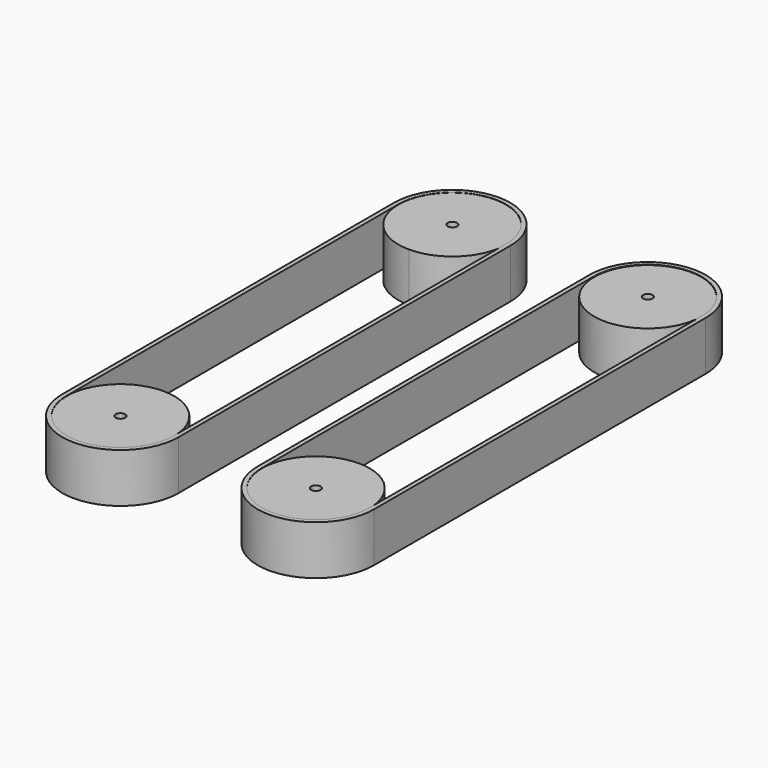
from build123d import *

# Parameters (mm, degrees)
F0_R     = 31.016257
F0_R_2   = 2.75
F1_DEPTH = 28.35
F3_DEPTH = 28.5


with BuildPart() as f1:
    # F0 (on Top) → F1 (new body)
    with BuildSketch(Plane.XY):
        with BuildLine():
            ThreePointArc((-53.666257, 119.999981), (-58.360258, 121.945067), (-56.417789, 117.249982))
            ThreePointArc((-56.417789, 117.249982), (-54.472255, 118.054896), (-53.666257, 119.999981))
        make_face()
        with BuildLine():
            ThreePointArc((-56.43369, 88.716243), (-34.301474, 97.872872), (-25.132513, 119.999981))
            ThreePointArc((-25.132513, 119.999981), (-33.296225, 141.074533), (-53.526603, 151.149981))
            Line((-53.526603, 151.149981), (-59.30591, 151.149981))
            ThreePointArc((-59.30591, 151.149981), (-79.536289, 141.074533), (-87.7, 119.999981))
            ThreePointArc((-87.7, 119.999981), (-78.543366, 97.885199), (-56.43369, 88.716243))
        make_face()
        with BuildLine():
            ThreePointArc((-53.666257, 119.999981), (-54.472255, 118.054896), (-56.417789, 117.249982))
            ThreePointArc((-56.417789, 117.249982), (-58.360258, 121.945067), (-53.666257, 119.999981))
        make_face(mode=Mode.SUBTRACT)
        with Locations((56.683743, 119.999981)):
            Circle(F0_R)
        with Locations((56.683743, 119.999981)):
            Circle(F0_R_2, mode=Mode.SUBTRACT)
        with BuildLine():
            ThreePointArc((87.7, -119.999981), (56.55, -88.849981), (25.4, -119.999981))
            ThreePointArc((25.4, -119.999981), (34.523624, -142.026358), (56.55, -151.149981))
            ThreePointArc((56.55, -151.149981), (78.576376, -142.026358), (87.7, -119.999981))
        make_face()
        with Locations((56.55, -119.999981)):
            Circle(F0_R_2, mode=Mode.SUBTRACT)
        with BuildLine():
            ThreePointArc((-53.8, -119.999981), (-54.604915, -118.05598), (-56.548468, -117.249982))
            ThreePointArc((-56.548468, -117.249982), (-58.495085, -121.943983), (-53.8, -119.999981))
        make_face()
        with BuildLine():
            ThreePointArc((-25.4, -119.999981), (-34.517487, -97.979743), (-56.532641, -88.849986))
            ThreePointArc((-56.532641, -88.849986), (-78.570238, -97.967469), (-87.7, -119.999981))
            ThreePointArc((-87.7, -119.999981), (-78.576376, -142.026358), (-56.55, -151.149981))
            ThreePointArc((-56.55, -151.149981), (-34.523624, -142.026358), (-25.4, -119.999981))
        make_face()
        with BuildLine():
            ThreePointArc((-53.8, -119.999981), (-58.495085, -121.943983), (-56.548468, -117.249982))
            ThreePointArc((-56.548468, -117.249982), (-54.604915, -118.05598), (-53.8, -119.999981))
        make_face(mode=Mode.SUBTRACT)
        with BuildLine():
            Line((-59.30591, 151.149981), (-53.526603, 151.149981))
            ThreePointArc((-53.526603, 151.149981), (-56.416257, 151.283725), (-59.30591, 151.149981))
        make_face()
    extrude(amount=F1_DEPTH)


with BuildPart() as f3:
    # F2 (on Top) → F3 (new body)
    with BuildSketch(Plane.XY):
        with BuildLine():
            Line((-25.4, -120), (-25.4, 120))
            ThreePointArc((-25.4, 120), (-56.55, 151.15), (-87.7, 120))
            Line((-87.7, 120), (-87.7, -120))
            ThreePointArc((-87.7, -120), (-56.55, -151.15), (-25.4, -120))
        make_face()
        with BuildLine():
            Line((-22.9, -120), (-22.9, 120))
            ThreePointArc((-22.9, 120), (-56.55, 153.65), (-90.2, 120))
            Line((-90.2, 120), (-90.2, -120))
            ThreePointArc((-90.2, -120), (-56.55, -153.65), (-22.9, -120))
        make_face()
        with BuildLine():
            ThreePointArc((-87.7, 120), (-56.55, 151.15), (-25.4, 120))
            Line((-25.4, 120), (-25.4, -120))
            ThreePointArc((-25.4, -120), (-56.55, -151.15), (-87.7, -120))
            Line((-87.7, -120), (-87.7, 120))
        make_face(mode=Mode.SUBTRACT)
        with BuildLine():
            ThreePointArc((87.7, 120), (56.55, 151.15), (25.4, 120))
            Line((25.4, 120), (25.4, -120))
            ThreePointArc((25.4, -120), (56.55, -151.15), (87.7, -120))
            Line((87.7, -120), (87.7, 120))
        make_face()
        with BuildLine():
            ThreePointArc((90.2, 120), (56.55, 153.65), (22.9, 120))
            Line((22.9, 120), (22.9, -120))
            ThreePointArc((22.9, -120), (56.55, -153.65), (90.2, -120))
            Line((90.2, -120), (90.2, 120))
        make_face()
        with BuildLine():
            Line((25.4, -120), (25.4, 120))
            ThreePointArc((25.4, 120), (56.55, 151.15), (87.7, 120))
            Line((87.7, 120), (87.7, -120))
            ThreePointArc((87.7, -120), (56.55, -151.15), (25.4, -120))
        make_face(mode=Mode.SUBTRACT)
    extrude(amount=F3_DEPTH)


solid = Compound([f1.part, f3.part])
